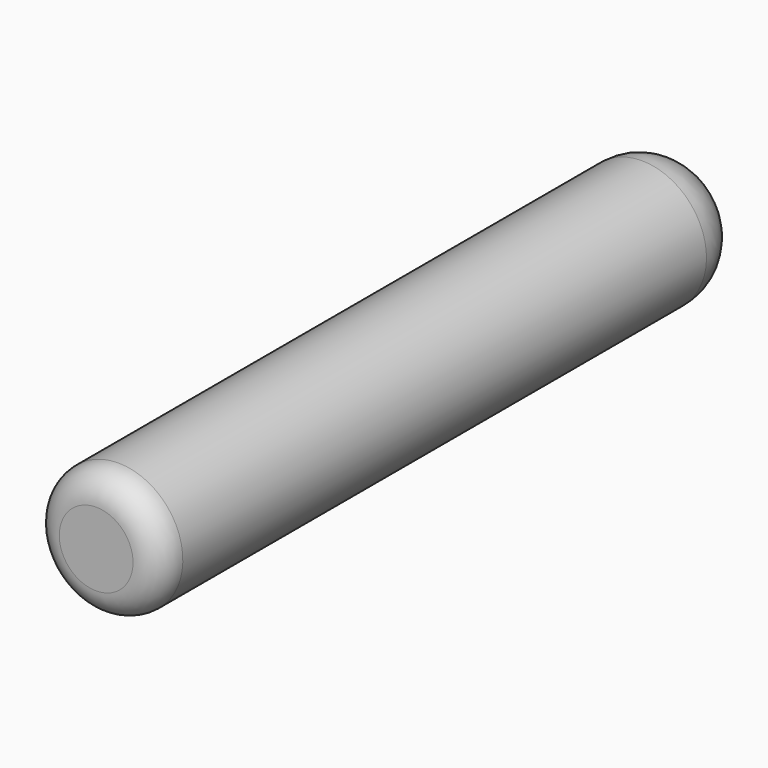
from build123d import *


with BuildPart() as f1:
    # F0 (on Right) → F1 (revolve)
    with BuildSketch(Plane.YZ):
        with BuildLine():
            ThreePointArc((0, 1), (-1.757359, 5.242641), (-6, 7))
            Line((-6, 7), (-77, 7))
            ThreePointArc((-77, 7), (-79.12132, 6.12132), (-80, 4))
            Line((-80, 4), (-80, 0))
            Line((-80, 0), (-79, 0))
            Line((-79, 0), (-79, 3))
            ThreePointArc((-79, 3), (-78.12132, 5.12132), (-76, 6))
            Line((-76, 6), (-7, 6))
            ThreePointArc((-7, 6), (-2.757359, 4.242641), (-1, 0))
            Line((-1, 0), (0, 0))
            Line((0, 0), (0, 1))
        make_face()
    revolve(axis=Axis((0, -40, 0), (0, -1, 0)))


solid = f1.part
